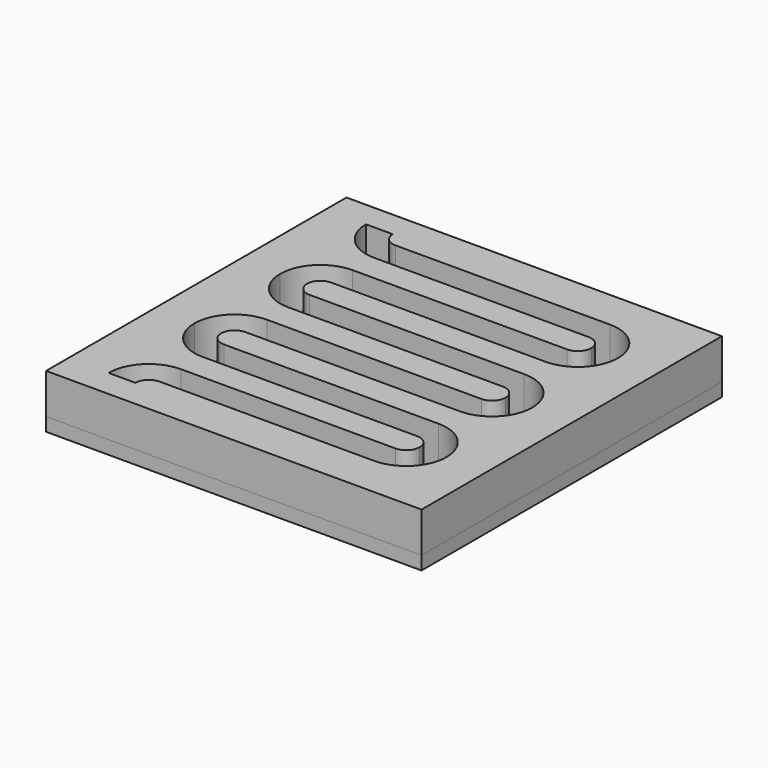
from build123d import *

# Parameters (mm, degrees)
F0_W     = 5
F0_H     = 4.826
F0_H_2   = 5.182414
F1_DEPTH = 7.5
F2_DEPTH = 2.5


with BuildPart() as f1:
    # F0 (on Top) → F1 (new body)
    with BuildSketch(Plane.XY):
        with BuildLine():
            ThreePointArc((-15.873059, 43.409657), (-21.174872, 45.604869), (-23.373057, 50.90545))
            Line((-23.373057, 50.90545), (-23.37463, 50.90545))
            ThreePointArc((-23.37463, 50.90545), (-21.177931, 56.208751), (-15.87463, 58.40545))
            Line((-15.87463, 58.40545), (24.12537, 58.40545))
            ThreePointArc((24.12537, 58.40545), (25.893137, 59.137683), (26.62537, 60.90545))
            ThreePointArc((26.62537, 60.90545), (25.893137, 62.673217), (24.12537, 63.40545))
            Line((24.12537, 63.40545), (-15.87463, 63.40545))
            ThreePointArc((-15.87463, 63.40545), (-21.176443, 65.600662), (-23.374629, 70.901243))
            Line((-23.374629, 70.901243), (-23.376201, 70.901243))
            ThreePointArc((-23.376201, 70.901243), (-21.179502, 76.204544), (-15.876201, 78.401243))
            Line((-15.876201, 78.401243), (24.123799, 78.401243))
            ThreePointArc((24.123799, 78.401243), (25.891565, 79.133476), (26.623799, 80.901243))
            ThreePointArc((26.623799, 80.901243), (25.891565, 82.66901), (24.123799, 83.401243))
            Line((24.123799, 83.401243), (-15.876201, 83.401243))
            ThreePointArc((-15.876201, 83.401243), (-21.179502, 85.597942), (-23.376201, 90.901243))
            Line((-23.376201, 90.901243), (-23.376201, 95.727243))
            Line((-23.376201, 95.727243), (-30.876201, 95.727243))
            Line((-30.876201, 95.727243), (-30.876201, 25.727243))
            Line((-30.876201, 25.727243), (-23.373059, 25.727243))
            Line((-23.373059, 25.727243), (-23.373059, 30.909657))
            ThreePointArc((-23.373059, 30.909657), (-21.176359, 36.212958), (-15.873059, 38.409657))
            Line((-15.873059, 38.409657), (24.126941, 38.409657))
            ThreePointArc((24.126941, 38.409657), (25.894708, 39.14189), (26.626941, 40.909657))
            ThreePointArc((26.626941, 40.909657), (25.894708, 42.677424), (24.126941, 43.409657))
            Line((24.126941, 43.409657), (-15.873059, 43.409657))
        make_face()
        with BuildLine():
            ThreePointArc((-15.87463, 53.40545), (-17.640909, 52.674704), (-18.374626, 50.909657))
            Line((-18.374626, 50.909657), (-18.373059, 50.909657))
            ThreePointArc((-18.373059, 50.909657), (-17.640825, 49.14189), (-15.873059, 48.409657))
            Line((-15.873059, 48.409657), (24.126941, 48.409657))
            ThreePointArc((24.126941, 48.409657), (29.430242, 46.212958), (31.626941, 40.909657))
            ThreePointArc((31.626941, 40.909657), (29.430242, 35.606356), (24.126941, 33.409657))
            Line((24.126941, 33.409657), (-15.873059, 33.409657))
            ThreePointArc((-15.873059, 33.409657), (-17.640825, 32.677424), (-18.373059, 30.909657))
            Line((-18.373059, 30.909657), (-18.373059, 25.727243))
            Line((-18.373059, 25.727243), (39.123799, 25.727243))
            Line((39.123799, 25.727243), (39.123799, 95.727243))
            Line((39.123799, 95.727243), (-18.376201, 95.727243))
            Line((-18.376201, 95.727243), (-18.376201, 90.901243))
            ThreePointArc((-18.376201, 90.901243), (-17.643968, 89.133476), (-15.876201, 88.401243))
            Line((-15.876201, 88.401243), (24.123799, 88.401243))
            ThreePointArc((24.123799, 88.401243), (29.427099, 86.204544), (31.623799, 80.901243))
            ThreePointArc((31.623799, 80.901243), (29.427099, 75.597942), (24.123799, 73.401243))
            Line((24.123799, 73.401243), (-15.876201, 73.401243))
            ThreePointArc((-15.876201, 73.401243), (-17.64248, 72.670497), (-18.376198, 70.90545))
            Line((-18.376198, 70.90545), (-18.37463, 70.90545))
            ThreePointArc((-18.37463, 70.90545), (-17.642397, 69.137683), (-15.87463, 68.40545))
            Line((-15.87463, 68.40545), (24.12537, 68.40545))
            ThreePointArc((24.12537, 68.40545), (29.428671, 66.208751), (31.62537, 60.90545))
            ThreePointArc((31.62537, 60.90545), (29.428671, 55.602149), (24.12537, 53.40545))
            Line((24.12537, 53.40545), (-15.87463, 53.40545))
        make_face()
        with Locations((-20.876201, 93.314243)):
            Rectangle(F0_W, F0_H)
        with Locations((-20.873059, 28.31845)):
            Rectangle(F0_W, F0_H_2)
    extrude(amount=F1_DEPTH)


with BuildPart() as f2:
    # F0 (on Top) → F2 (new body)
    with BuildSketch(Plane.XY):
        with BuildLine():
            ThreePointArc((-23.373057, 50.90545), (-23.373058, 50.907553), (-23.373059, 50.909657))
            Line((-23.373059, 50.909657), (-18.374626, 50.909657))
            ThreePointArc((-18.374626, 50.909657), (-17.640909, 52.674704), (-15.87463, 53.40545))
            Line((-15.87463, 53.40545), (24.12537, 53.40545))
            ThreePointArc((24.12537, 53.40545), (29.428671, 55.602149), (31.62537, 60.90545))
            ThreePointArc((31.62537, 60.90545), (29.428671, 66.208751), (24.12537, 68.40545))
            Line((24.12537, 68.40545), (-15.87463, 68.40545))
            ThreePointArc((-15.87463, 68.40545), (-17.642397, 69.137683), (-18.37463, 70.90545))
            Line((-18.37463, 70.90545), (-18.376198, 70.90545))
            ThreePointArc((-18.376198, 70.90545), (-18.376201, 70.903347), (-18.376201, 70.901243))
            Line((-18.376201, 70.901243), (-23.374629, 70.901243))
            ThreePointArc((-23.374629, 70.901243), (-21.176443, 65.600662), (-15.87463, 63.40545))
            Line((-15.87463, 63.40545), (24.12537, 63.40545))
            ThreePointArc((24.12537, 63.40545), (25.893137, 62.673217), (26.62537, 60.90545))
            ThreePointArc((26.62537, 60.90545), (25.893137, 59.137683), (24.12537, 58.40545))
            Line((24.12537, 58.40545), (-15.87463, 58.40545))
            ThreePointArc((-15.87463, 58.40545), (-21.177931, 56.208751), (-23.37463, 50.90545))
            Line((-23.37463, 50.90545), (-23.373057, 50.90545))
        make_face()
        with BuildLine():
            Line((-18.373059, 50.909657), (-18.374626, 50.909657))
            ThreePointArc((-18.374626, 50.909657), (-18.374629, 50.907553), (-18.37463, 50.90545))
            Line((-18.37463, 50.90545), (-23.373057, 50.90545))
            ThreePointArc((-23.373057, 50.90545), (-21.174872, 45.604869), (-15.873059, 43.409657))
            Line((-15.873059, 43.409657), (24.126941, 43.409657))
            ThreePointArc((24.126941, 43.409657), (25.894708, 42.677424), (26.626941, 40.909657))
            ThreePointArc((26.626941, 40.909657), (25.894708, 39.14189), (24.126941, 38.409657))
            Line((24.126941, 38.409657), (-15.873059, 38.409657))
            ThreePointArc((-15.873059, 38.409657), (-21.176359, 36.212958), (-23.373059, 30.909657))
            Line((-23.373059, 30.909657), (-18.373059, 30.909657))
            ThreePointArc((-18.373059, 30.909657), (-17.640825, 32.677424), (-15.873059, 33.409657))
            Line((-15.873059, 33.409657), (24.126941, 33.409657))
            ThreePointArc((24.126941, 33.409657), (29.430242, 35.606356), (31.626941, 40.909657))
            ThreePointArc((31.626941, 40.909657), (29.430242, 46.212958), (24.126941, 48.409657))
            Line((24.126941, 48.409657), (-15.873059, 48.409657))
            ThreePointArc((-15.873059, 48.409657), (-17.640825, 49.14189), (-18.373059, 50.909657))
        make_face()
        with Locations((-20.876201, 93.314243)):
            Rectangle(F0_W, F0_H)
        with Locations((-20.873059, 28.31845)):
            Rectangle(F0_W, F0_H_2)
        with BuildLine():
            ThreePointArc((-15.873059, 43.409657), (-21.174872, 45.604869), (-23.373057, 50.90545))
            Line((-23.373057, 50.90545), (-23.37463, 50.90545))
            ThreePointArc((-23.37463, 50.90545), (-21.177931, 56.208751), (-15.87463, 58.40545))
            Line((-15.87463, 58.40545), (24.12537, 58.40545))
            ThreePointArc((24.12537, 58.40545), (25.893137, 59.137683), (26.62537, 60.90545))
            ThreePointArc((26.62537, 60.90545), (25.893137, 62.673217), (24.12537, 63.40545))
            Line((24.12537, 63.40545), (-15.87463, 63.40545))
            ThreePointArc((-15.87463, 63.40545), (-21.176443, 65.600662), (-23.374629, 70.901243))
            Line((-23.374629, 70.901243), (-23.376201, 70.901243))
            ThreePointArc((-23.376201, 70.901243), (-21.179502, 76.204544), (-15.876201, 78.401243))
            Line((-15.876201, 78.401243), (24.123799, 78.401243))
            ThreePointArc((24.123799, 78.401243), (25.891565, 79.133476), (26.623799, 80.901243))
            ThreePointArc((26.623799, 80.901243), (25.891565, 82.66901), (24.123799, 83.401243))
            Line((24.123799, 83.401243), (-15.876201, 83.401243))
            ThreePointArc((-15.876201, 83.401243), (-21.179502, 85.597942), (-23.376201, 90.901243))
            Line((-23.376201, 90.901243), (-23.376201, 95.727243))
            Line((-23.376201, 95.727243), (-30.876201, 95.727243))
            Line((-30.876201, 95.727243), (-30.876201, 25.727243))
            Line((-30.876201, 25.727243), (-23.373059, 25.727243))
            Line((-23.373059, 25.727243), (-23.373059, 30.909657))
            ThreePointArc((-23.373059, 30.909657), (-21.176359, 36.212958), (-15.873059, 38.409657))
            Line((-15.873059, 38.409657), (24.126941, 38.409657))
            ThreePointArc((24.126941, 38.409657), (25.894708, 39.14189), (26.626941, 40.909657))
            ThreePointArc((26.626941, 40.909657), (25.894708, 42.677424), (24.126941, 43.409657))
            Line((24.126941, 43.409657), (-15.873059, 43.409657))
        make_face()
        with BuildLine():
            Line((-23.37463, 70.90545), (-18.376198, 70.90545))
            ThreePointArc((-18.376198, 70.90545), (-17.64248, 72.670497), (-15.876201, 73.401243))
            Line((-15.876201, 73.401243), (24.123799, 73.401243))
            ThreePointArc((24.123799, 73.401243), (29.427099, 75.597942), (31.623799, 80.901243))
            ThreePointArc((31.623799, 80.901243), (29.427099, 86.204544), (24.123799, 88.401243))
            Line((24.123799, 88.401243), (-15.876201, 88.401243))
            ThreePointArc((-15.876201, 88.401243), (-17.643968, 89.133476), (-18.376201, 90.901243))
            Line((-18.376201, 90.901243), (-23.376201, 90.901243))
            ThreePointArc((-23.376201, 90.901243), (-21.179502, 85.597942), (-15.876201, 83.401243))
            Line((-15.876201, 83.401243), (24.123799, 83.401243))
            ThreePointArc((24.123799, 83.401243), (25.891565, 82.66901), (26.623799, 80.901243))
            ThreePointArc((26.623799, 80.901243), (25.891565, 79.133476), (24.123799, 78.401243))
            Line((24.123799, 78.401243), (-15.876201, 78.401243))
            ThreePointArc((-15.876201, 78.401243), (-21.179502, 76.204544), (-23.376201, 70.901243))
            Line((-23.376201, 70.901243), (-23.374629, 70.901243))
            ThreePointArc((-23.374629, 70.901243), (-23.37463, 70.903347), (-23.37463, 70.90545))
        make_face()
        with BuildLine():
            ThreePointArc((-15.87463, 53.40545), (-17.640909, 52.674704), (-18.374626, 50.909657))
            Line((-18.374626, 50.909657), (-18.373059, 50.909657))
            ThreePointArc((-18.373059, 50.909657), (-17.640825, 49.14189), (-15.873059, 48.409657))
            Line((-15.873059, 48.409657), (24.126941, 48.409657))
            ThreePointArc((24.126941, 48.409657), (29.430242, 46.212958), (31.626941, 40.909657))
            ThreePointArc((31.626941, 40.909657), (29.430242, 35.606356), (24.126941, 33.409657))
            Line((24.126941, 33.409657), (-15.873059, 33.409657))
            ThreePointArc((-15.873059, 33.409657), (-17.640825, 32.677424), (-18.373059, 30.909657))
            Line((-18.373059, 30.909657), (-18.373059, 25.727243))
            Line((-18.373059, 25.727243), (39.123799, 25.727243))
            Line((39.123799, 25.727243), (39.123799, 95.727243))
            Line((39.123799, 95.727243), (-18.376201, 95.727243))
            Line((-18.376201, 95.727243), (-18.376201, 90.901243))
            ThreePointArc((-18.376201, 90.901243), (-17.643968, 89.133476), (-15.876201, 88.401243))
            Line((-15.876201, 88.401243), (24.123799, 88.401243))
            ThreePointArc((24.123799, 88.401243), (29.427099, 86.204544), (31.623799, 80.901243))
            ThreePointArc((31.623799, 80.901243), (29.427099, 75.597942), (24.123799, 73.401243))
            Line((24.123799, 73.401243), (-15.876201, 73.401243))
            ThreePointArc((-15.876201, 73.401243), (-17.64248, 72.670497), (-18.376198, 70.90545))
            Line((-18.376198, 70.90545), (-18.37463, 70.90545))
            ThreePointArc((-18.37463, 70.90545), (-17.642397, 69.137683), (-15.87463, 68.40545))
            Line((-15.87463, 68.40545), (24.12537, 68.40545))
            ThreePointArc((24.12537, 68.40545), (29.428671, 66.208751), (31.62537, 60.90545))
            ThreePointArc((31.62537, 60.90545), (29.428671, 55.602149), (24.12537, 53.40545))
            Line((24.12537, 53.40545), (-15.87463, 53.40545))
        make_face()
    extrude(amount=-F2_DEPTH)


solid = Compound([f1.part, f2.part])
